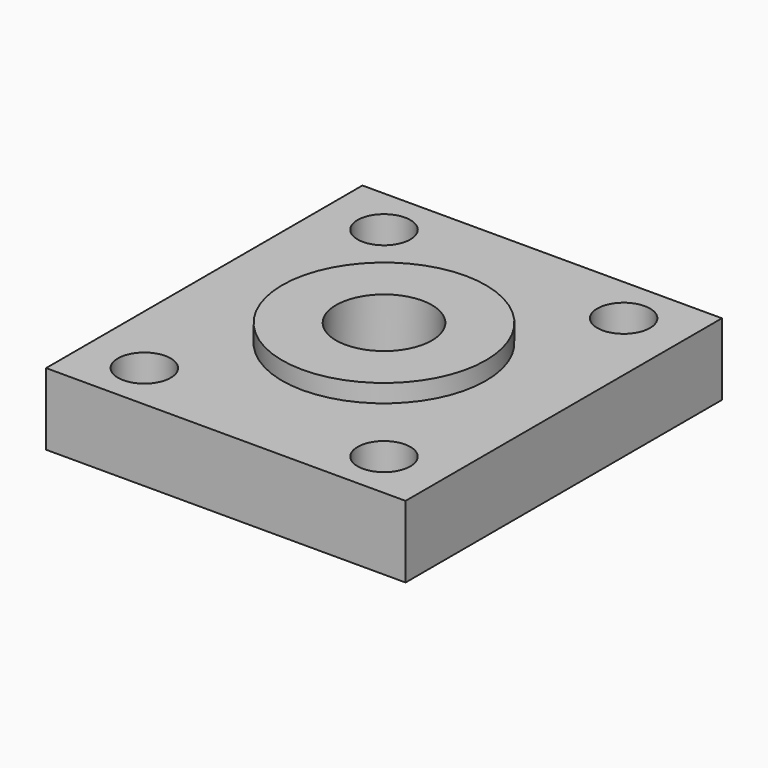
from build123d import *

# Parameters (mm, degrees)
F0_W     = 30
F0_H     = 33
F0_R     = 4
F1_DEPTH = 6
F2_R     = 8.5
F2_R_2   = 4
F3_DEPTH = 1.5
F4_R     = 6
F4_R_2   = 4
F5_DEPTH = 1
F7_D     = 4.4


with BuildPart() as f1:
    # F0 (on Top) → F1 (new body)
    with BuildSketch(Plane.XY):
        Rectangle(F0_W, F0_H)
        Circle(F0_R, mode=Mode.SUBTRACT)
    extrude(amount=F1_DEPTH)

    # F2 (on face) → F3 (join)
    with BuildSketch(Plane.XY.offset(6)):
        Circle(F2_R)
        Circle(F2_R_2, mode=Mode.SUBTRACT)
    extrude(amount=F3_DEPTH)

    # F4 (on face) → F5 (cut)
    with BuildSketch(Plane(origin=(0, 0, 0), x_dir=(1, 0, 0), z_dir=(0, 0, -1))):
        Circle(F4_R)
        Circle(F4_R_2, mode=Mode.SUBTRACT)
    extrude(amount=-F5_DEPTH, mode=Mode.SUBTRACT)

    # F7 (through all)
    with Locations(Plane.XY.offset(6)):
        with Locations((-10, 12.5), (10, 12.5), (10, -12.5), (-10, -12.5)):
            Hole(F7_D / 2)


solid = f1.part
